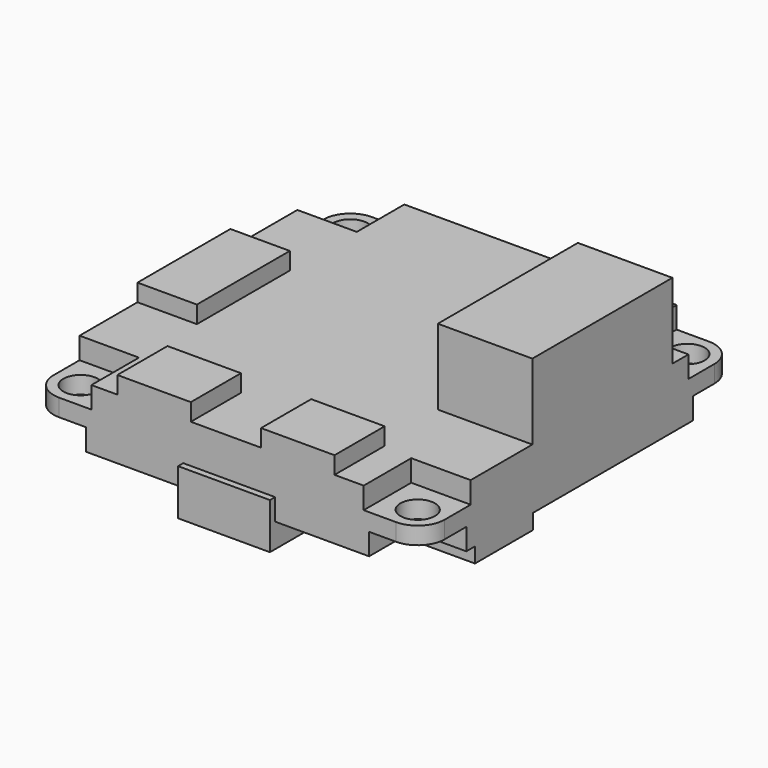
from build123d import *

# Parameters (mm, degrees)
F0_R      = 1.6
F1_DEPTH  = 1.6
F2_W      = 5.5
F2_H      = 10.75
F2_W_2    = 6.8
F2_H_2    = 5.8
F3_DEPTH  = 3.6
F2_W_3    = 8.75
F2_H_3    = 16.2
F4_DEPTH  = 9
F5_DEPTH  = 2
F7_DEPTH  = 2
F6_W      = 8.5
F6_H      = 0.6
F6_H_2    = 9
F8_DEPTH  = 4.25
F6_W_2    = 5.3
F6_H_3    = 6.7
F9_DEPTH  = 3.4
F6_W_3    = 8
F6_H_4    = 7
F10_DEPTH = 4


with BuildPart() as f1:
    # F0 (on Top) → F1 (new body)
    with BuildSketch(Plane.XY):
        with BuildLine():
            Line((15.6, 18.1), (-15.6, 18.1))
            ThreePointArc((-15.6, 18.1), (-17.367767, 17.367767), (-18.1, 15.6))
            Line((-18.1, 15.6), (-18.1, -15.6))
            ThreePointArc((-18.1, -15.6), (-17.367767, -17.367767), (-15.6, -18.1))
            Line((-15.6, -18.1), (15.6, -18.1))
            ThreePointArc((15.6, -18.1), (17.367767, -17.367767), (18.1, -15.6))
            Line((18.1, -15.6), (18.1, 15.6))
            ThreePointArc((18.1, 15.6), (17.367767, 17.367767), (15.6, 18.1))
        make_face()
        with Locations((-15.6, -15.6)):
            Circle(F0_R, mode=Mode.SUBTRACT)
        with Locations((15.6, -15.6)):
            Circle(F0_R, mode=Mode.SUBTRACT)
        with Locations((-15.6, 15.6)):
            Circle(F0_R, mode=Mode.SUBTRACT)
        with Locations((15.6, 15.6)):
            Circle(F0_R, mode=Mode.SUBTRACT)
    extrude(amount=F1_DEPTH)

    # F2 (on face) → F3 (join)
    with BuildSketch(Plane.XY.offset(1.6)):
        with Locations((-15.35, -0.525)):
            Rectangle(F2_W, F2_H)
        with Locations((-6.8, -15.2)):
            Rectangle(F2_W_2, F2_H_2)
        with Locations((6.5, -15.2)):
            Rectangle(F2_W_2, F2_H_2)
    extrude(amount=F3_DEPTH)

    # F2 (on face) → F4 (join)
    with BuildSketch(Plane.XY.offset(1.6)):
        with Locations((13.725, 2.64)):
            Rectangle(F2_W_3, F2_H_3)
    extrude(amount=F4_DEPTH)

    # F2 (on face) → F5 (join)
    with BuildSketch(Plane.XY.offset(1.6)):
        Polygon((-12.6, -5.9), (-18.1, -5.9), (-18.1, -12.6), (-12.6, -12.6), (-12.6, -18.1), (-10.2, -18.1), (-10.2, -12.3), (-3.4, -12.3), (-3.4, -18.1), (3.1, -18.1), (3.1, -12.3), (9.9, -12.3), (9.9, -18.1), (12.6, -18.1), (12.6, -12.6), (18.1, -12.6), (18.1, -5.46), (9.35, -5.46), (9.35, 10.74), (18.1, 10.74), (18.1, 12.6), (12.6, 12.6), (12.6, 18.1), (-12.6, 18.1), (-12.6, 12.6), (-18.1, 12.6), (-18.1, 4.85), (-12.6, 4.85), align=None)
    extrude(amount=F5_DEPTH)

    # F6 (on face) → F7 (join)
    with BuildSketch(Plane(origin=(0, 0, 0), x_dir=(1, 0, 0), z_dir=(0, 0, -1))):
        Polygon((12.8, 12.1), (18.1, 12.1), (18.1, 13.1), (13.1, 13.1), (13.1, 18.1), (4.4, 18.1), (4.4, 9.1), (-4.1, 9.1), (-4.1, 18.1), (-13.1, 18.1), (-13.1, 13.1), (-18.1, 13.1), (-18.1, -13.1), (-13.1, -13.1), (-13.1, -18.1), (-11.3, -18.1), (-11.3, -11.1), (-3.3, -11.1), (-3.3, -18.1), (3.4, -18.1), (3.4, -11.1), (11.4, -11.1), (11.4, -18.1), (13.1, -18.1), (13.1, -13.1), (18.1, -13.1), (18.1, 5.4), (12.8, 5.4), align=None)
    extrude(amount=F7_DEPTH)

    # F6 (on face) → F8 (join)
    with BuildSketch(Plane(origin=(0, 0, 0), x_dir=(1, 0, 0), z_dir=(0, 0, -1))):
        with Locations((0.15, 18.4)):
            Rectangle(F6_W, F6_H)
        with Locations((0.15, 13.6)):
            Rectangle(F6_W, F6_H_2)
    extrude(amount=F8_DEPTH)

    # F6 (on face) → F9 (join)
    with BuildSketch(Plane(origin=(0, 0, 0), x_dir=(1, 0, 0), z_dir=(0, 0, -1))):
        with Locations((15.45, 8.75)):
            Rectangle(F6_W_2, F6_H_3)
    extrude(amount=F9_DEPTH)

    # F6 (on face) → F10 (join)
    with BuildSketch(Plane(origin=(0, 0, 0), x_dir=(1, 0, 0), z_dir=(0, 0, -1))):
        with Locations((7.4, -14.6)):
            Rectangle(F6_W_3, F6_H_4)
        with Locations((-7.3, -14.6)):
            Rectangle(F6_W_3, F6_H_4)
    extrude(amount=F10_DEPTH)


solid = f1.part
